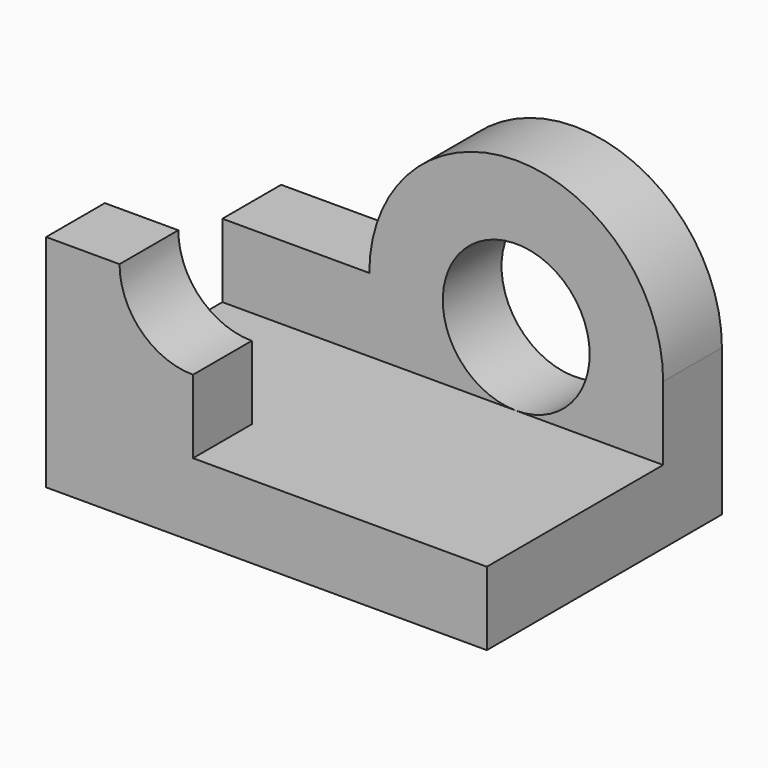
from build123d import *

# Parameters (mm, degrees)
F0_R     = 10
F1_DEPTH = 10
F2_W     = 60
F2_H     = 40
F3_DEPTH = 10
F4_W     = 20
F4_H     = 10
F5_DEPTH = 20
F6_R     = 10
F7_DEPTH = 10


with BuildPart() as f1:
    # F0 (on Front) → F1 (new body)
    with BuildSketch(Plane.XZ):
        with BuildLine():
            Line((-24.320989, 10), (-24.320989, 0))
            Line((-24.320989, 0), (35.679011, 0))
            Line((35.679011, 0), (35.679011, 10))
            Line((35.679011, 10), (35.679011, 20))
            ThreePointArc((35.679011, 20), (15.679011, 40), (-4.320989, 20))
            Line((-4.320989, 20), (-24.320989, 20))
            Line((-24.320989, 20), (-24.320989, 10))
        make_face()
        with Locations((15.679011, 20)):
            Circle(F0_R, mode=Mode.SUBTRACT)
    extrude(amount=F1_DEPTH)

    # F2 (on Top) → F3 (join)
    with BuildSketch(Plane.XY):
        with Locations((5.679011, -20)):
            Rectangle(F2_W, F2_H)
    extrude(amount=F3_DEPTH)

    # F4 (on face) → F5 (join)
    with BuildSketch(Plane.XY.offset(10)):
        with Locations((-14.320989, -35)):
            Rectangle(F4_W, F4_H)
    extrude(amount=F5_DEPTH)

    # F6 (on face) → F7 (cut)
    with BuildSketch(Plane.XZ.offset(40)):
        with Locations((-4.320989, 30)):
            Circle(F6_R)
    extrude(amount=-F7_DEPTH, mode=Mode.SUBTRACT)


solid = f1.part
